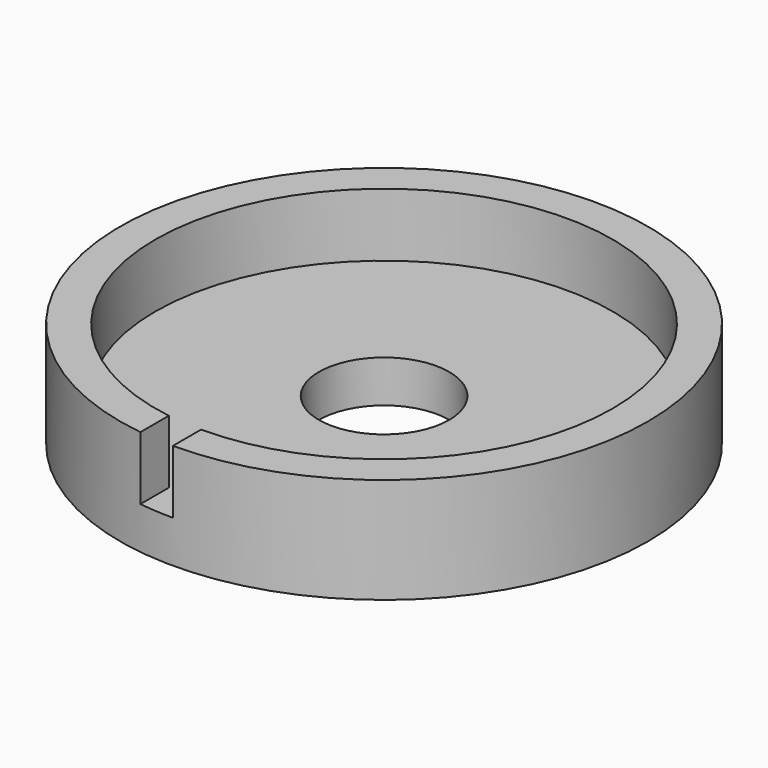
from build123d import *

# Parameters (mm, degrees)
F0_R     = 7.5
F1_DEPTH = 3
F2_R     = 6.5000001341
F3_DEPTH = 1.8
F5_DEPTH = 1.8
F6_R     = 1.85
F7_DEPTH = 2


with BuildPart() as f1:
    # F0 (on Top) → F1 (new body)
    with BuildSketch(Plane.XY):
        Circle(F0_R)
    extrude(amount=F1_DEPTH)

    # F2 (on face) → F3 (cut)
    with BuildSketch(Plane.XY.offset(3)):
        Circle(F2_R)
    extrude(amount=-F3_DEPTH, mode=Mode.SUBTRACT)

    # F4 (on face) → F5 (cut)
    with BuildSketch(Plane.XY.offset(3)):
        with BuildLine():
            Line((0, -7.5), (0, -6.5000001341))
            ThreePointArc((0, -6.5000001341), (-0.4891376474, -6.4815697254), (-0.9755014466, -6.4263830162))
            Line((-0.9755014466, -6.4263830162), (-0.9755014466, -7.4362891907))
            ThreePointArc((-0.9755014466, -7.4362891907), (-0.4887898678, -7.4840553489), (0, -7.5))
        make_face()
    extrude(amount=-F5_DEPTH, mode=Mode.SUBTRACT)

    # F6 (on face) → F7 (cut)
    with BuildSketch(Plane.XY.offset(1.2)):
        Circle(F6_R)
    extrude(amount=-F7_DEPTH, mode=Mode.SUBTRACT)


solid = f1.part
